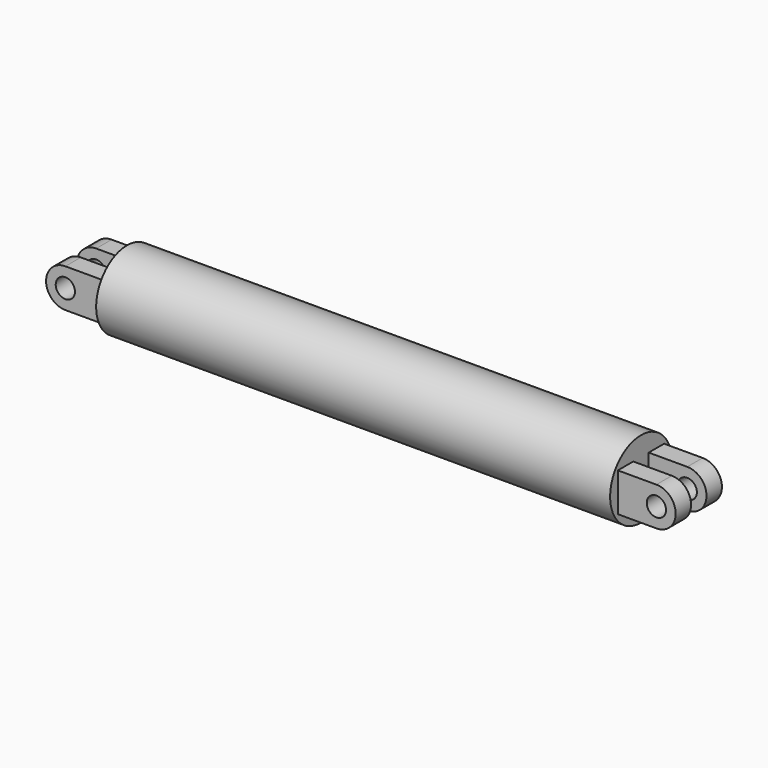
from build123d import *

# Parameters (mm, degrees)
F0_R     = 7.62
F1_DEPTH = 50.8
F2_R     = 1.905
F3_DEPTH = 5.715
F4_W     = 3.81
F4_H     = 7.62
F5_DEPTH = 11.431


with BuildPart() as f1:
    # F0 (on Right) → F1 (new body, symmetric)
    with BuildSketch(Plane.YZ):
        Circle(F0_R)
    extrude(amount=F1_DEPTH, both=True)

    # F2 (on Front) → F3 (join, symmetric)
    with BuildSketch(Plane.XZ):
        with BuildLine():
            Line((50.8, 3.81), (50.8, 0))
            Line((50.8, 0), (50.8, -3.81))
            Line((50.8, -3.81), (58.42, -3.81))
            ThreePointArc((58.42, -3.81), (62.23, 0), (58.42, 3.81))
            Line((58.42, 3.81), (50.8, 3.81))
        make_face()
        with Locations((58.42, 0)):
            Circle(F2_R, mode=Mode.SUBTRACT)
    extrude(amount=F3_DEPTH, both=True)

    # F4 (on face) → F5 (cut, through all)
    with BuildSketch(Plane.YZ.offset(50.8)):
        Rectangle(F4_W, F4_H)
    extrude(amount=F5_DEPTH, mode=Mode.SUBTRACT)

    # F6: F1 across plane


with BuildPart() as f1_1:
    add(f1.part)
    add(f1.part.mirror(Plane.YZ))


solid = f1_1.part
